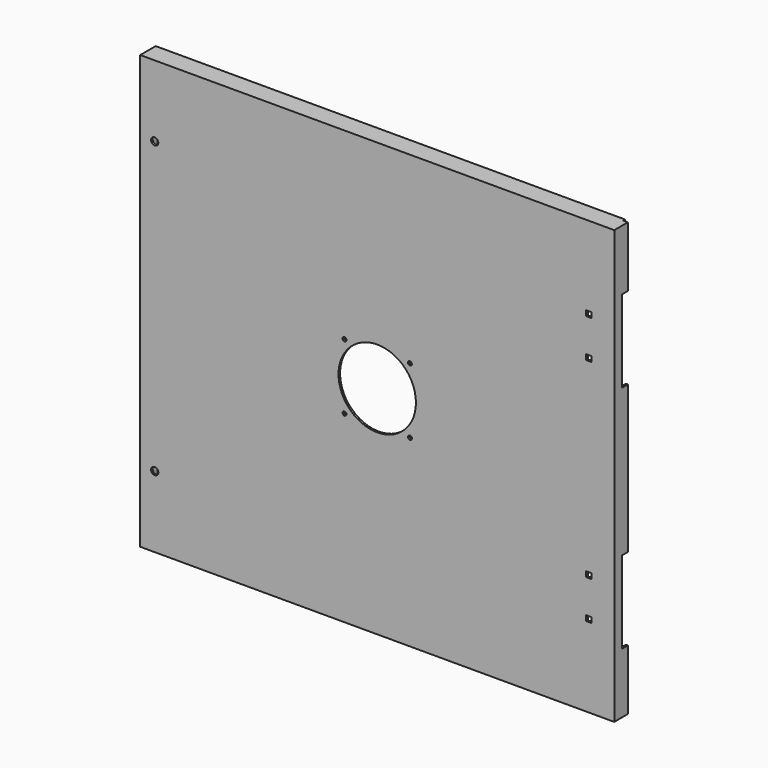
from build123d import *

# Parameters (mm, degrees)
F0_W     = 622.3
F0_H     = 568.325
F0_R     = 4.7625
F0_R_2   = 2.54
F0_W_2   = 6.858
F0_H_2   = 6.858
F0_R_3   = 50.8
F1_DEPTH = 25.4
F2_T     = -2.54
F3_W     = 617.22
F3_H     = 22.86
F4_DEPTH = 563.245
F5_W     = 6.35
F5_H     = 3.175
F6_DEPTH = 568.326
F7_W     = 12.7
F7_H     = 107.95
F8_DEPTH = 2.54


with BuildPart() as f1:
    # F0 (on Front) → F1 (new body)
    with BuildSketch(Plane.XZ):
        with Locations((0, 284.1625)):
            Rectangle(F0_W, F0_H)
        with Locations((-292.1, 93.6625)):
            Circle(F0_R, mode=Mode.SUBTRACT)
        with Locations((-42.926, 241.2365)):
            Circle(F0_R_2, mode=Mode.SUBTRACT)
        with Locations((277.8125, 107.95)):
            Rectangle(F0_W_2, F0_H_2, mode=Mode.SUBTRACT)
        with Locations((42.926, 241.2365)):
            Circle(F0_R_2, mode=Mode.SUBTRACT)
        with Locations((277.8125, 158.75)):
            Rectangle(F0_W_2, F0_H_2, mode=Mode.SUBTRACT)
        with Locations((-42.926, 327.0885)):
            Circle(F0_R_2, mode=Mode.SUBTRACT)
        with Locations((-292.1, 474.6625)):
            Circle(F0_R, mode=Mode.SUBTRACT)
        with Locations((0, 284.1625)):
            Circle(F0_R_3, mode=Mode.SUBTRACT)
        with Locations((42.926, 327.0885)):
            Circle(F0_R_2, mode=Mode.SUBTRACT)
        with Locations((277.8125, 409.575)):
            Rectangle(F0_W_2, F0_H_2, mode=Mode.SUBTRACT)
        with Locations((277.8125, 460.375)):
            Rectangle(F0_W_2, F0_H_2, mode=Mode.SUBTRACT)
    extrude(amount=F1_DEPTH)

    # F2
    f2_openings = [f1.faces().sort_by_distance(p)[0] for p in [
        (302.722363, 0, 284.1625),
    ]]
    offset(amount=F2_T, openings=f2_openings, kind=Kind.INTERSECTION)

    # F3 (on face) → F4 (cut, through all)
    with BuildSketch(Plane.XY.offset(2.54)):
        with Locations((0, -11.43)):
            Rectangle(F3_W, F3_H)
    extrude(amount=F4_DEPTH, mode=Mode.SUBTRACT)

    # F5 (on face) → F6 (cut, through all)
    with BuildSketch(Plane.XY.offset(568.325)):
        with Locations((307.975, -1.5875)):
            Rectangle(F5_W, F5_H)
    extrude(amount=-F6_DEPTH, mode=Mode.SUBTRACT)

    # F7 (on face) → F8 (cut, through all)
    with BuildSketch(Plane.YZ.offset(311.15)):
        with Locations((-6.35, 434.975)):
            Rectangle(F7_W, F7_H)
        with Locations((-6.35, 133.35)):
            Rectangle(F7_W, F7_H)
    extrude(amount=-F8_DEPTH, mode=Mode.SUBTRACT)


solid = f1.part
